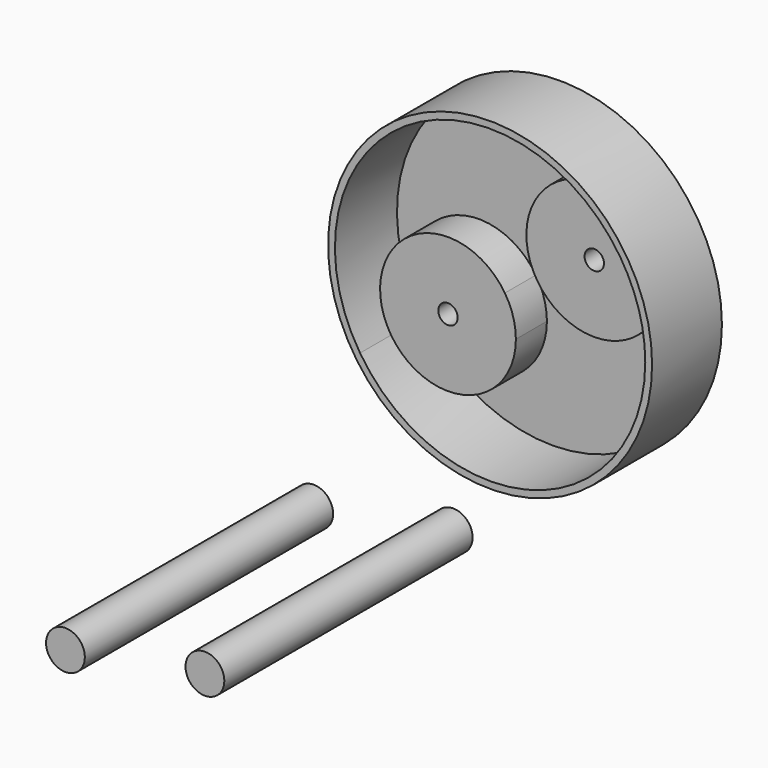
from build123d import *

# Parameters (mm, degrees)
F0_R     = 3.175
F1_DEPTH = 50.8
F2_DEPTH = 50.8
F3_R     = 26.5176901182
F4_DEPTH = 12.7
F5_DEPTH = 1.5875
F6_DEPTH = 1.5875
F7_DEPTH = 6.35
F8_D     = 3.175
F8_2_D   = 3.175
F9_D     = 3.175


with BuildPart() as f1:
    # F0 (on Front) → F1 (new body)
    with BuildSketch(Plane.XZ):
        Circle(F0_R)
    extrude(amount=F1_DEPTH)


with BuildPart() as f2:
    # F0 (on Front) → F2 (new body)
    with BuildSketch(Plane.XZ):
        with Locations((22.8306278586, 4.0089422837)):
            Circle(F0_R)
    extrude(amount=F2_DEPTH)


with BuildPart() as f4:
    # F3 (on Front) → F4 (new body)
    with BuildSketch(Plane.XZ):
        with Locations((39.0294722857, 46.9336968206)):
            Circle(F3_R)
        with BuildLine():
            ThreePointArc((60.314654032, 60.7937486974), (63.3790473986, 54.162679586), (64.4294722857, 46.9336968206))
            ThreePointArc((64.4294722857, 46.9336968206), (46.2584550511, 22.5841217077), (17.7442905394, 33.0736449439))
            ThreePointArc((17.7442905394, 33.0736449439), (25.169420409, 68.2188785669), (60.314654032, 60.7937486974))
        make_face(mode=Mode.SUBTRACT)
    extrude(amount=F4_DEPTH)

    # F3 (on Front) → F5 (join)
    with BuildSketch(Plane.XZ):
        with Locations((39.0294722857, 46.9336968206)):
            Circle(F3_R)
        with BuildLine():
            ThreePointArc((60.314654032, 60.7937486974), (63.3790473986, 54.162679586), (64.4294722857, 46.9336968206))
            ThreePointArc((64.4294722857, 46.9336968206), (46.2584550511, 22.5841217077), (17.7442905394, 33.0736449439))
            ThreePointArc((17.7442905394, 33.0736449439), (25.169420409, 68.2188785669), (60.314654032, 60.7937486974))
        make_face(mode=Mode.SUBTRACT)
    extrude(amount=-F5_DEPTH)

    # F3 (on Front) → F6 (join)
    with BuildSketch(Plane.XZ):
        with BuildLine():
            ThreePointArc((36.3688245948, 45.2011902941), (20.9927850841, 48.4496843517), (17.7442905394, 33.0736449439))
            ThreePointArc((17.7442905394, 33.0736449439), (30.2192375383, 28.4844781585), (38.1690577592, 39.137417324))
            ThreePointArc((38.1690577592, 39.137417324), (37.7094968245, 42.3000974406), (36.3688245948, 45.2011902941))
        make_face()
        with BuildLine():
            ThreePointArc((62.1148868123, 54.7299763172), (61.6553259779, 57.8926560964), (60.314654032, 60.7937486974))
            ThreePointArc((60.314654032, 60.7937486974), (44.9386141663, 64.0422433638), (41.6901199388, 48.6662034053))
            ThreePointArc((41.6901199388, 48.6662034053), (54.1650668956, 44.077037242), (62.1148868123, 54.7299763172))
        make_face()
        with BuildLine():
            ThreePointArc((17.7442905394, 33.0736449439), (46.2584550511, 22.5841217077), (64.4294722857, 46.9336968206))
            ThreePointArc((64.4294722857, 46.9336968206), (63.3790473986, 54.162679586), (60.314654032, 60.7937486974))
            ThreePointArc((60.314654032, 60.7937486974), (61.6553259779, 57.8926560964), (62.1148868123, 54.7299763172))
            ThreePointArc((62.1148868123, 54.7299763172), (54.1650668956, 44.077037242), (41.6901199388, 48.6662034053))
            ThreePointArc((41.6901199388, 48.6662034053), (42.0731691578, 47.8373197236), (42.2044722857, 46.9336968206))
            ThreePointArc((42.2044722857, 46.9336968206), (39.9330951554, 43.8899999386), (36.3688245948, 45.2011902941))
            ThreePointArc((36.3688245948, 45.2011902941), (37.7094968245, 42.3000974406), (38.1690577592, 39.137417324))
            ThreePointArc((38.1690577592, 39.137417324), (30.2192375383, 28.4844781585), (17.7442905394, 33.0736449439))
        make_face()
        with BuildLine():
            ThreePointArc((41.6901199388, 48.6662034053), (44.9386141663, 64.0422433638), (60.314654032, 60.7937486974))
            ThreePointArc((60.314654032, 60.7937486974), (25.169420409, 68.2188785669), (17.7442905394, 33.0736449439))
            ThreePointArc((17.7442905394, 33.0736449439), (20.9927850841, 48.4496843517), (36.3688245948, 45.2011902941))
            ThreePointArc((36.3688245948, 45.2011902941), (37.2969657301, 49.5943444927), (41.6901199388, 48.6662034053))
        make_face()
    extrude(amount=-F6_DEPTH)

    # F9 (through all)
    with Locations(Plane.XZ):
        with Locations((51.0023868123, 54.7299763172), (27.0565577592, 39.137417324)):
            Hole(F9_D / 2)


with BuildPart() as f7:
    # F3 (on Front) → F7 (new body)
    with BuildSketch(Plane.XZ):
        with BuildLine():
            ThreePointArc((62.1148868123, 54.7299763172), (61.6553259779, 57.8926560964), (60.314654032, 60.7937486974))
            ThreePointArc((60.314654032, 60.7937486974), (44.9386141663, 64.0422433638), (41.6901199388, 48.6662034053))
            ThreePointArc((41.6901199388, 48.6662034053), (54.1650668956, 44.077037242), (62.1148868123, 54.7299763172))
        make_face()
    extrude(amount=F7_DEPTH)

    # F8 (through all)
    with Locations(Plane(origin=(0, 0, 0), x_dir=(1, 0, 0), z_dir=(0, 1, 0))):
        with Locations((27.0565577592, -39.137417324), (51.0023868123, -54.7299763172)):
            Hole(F8_D / 2)


with BuildPart() as f7b:
    # F3 (on Front) → F7, piece 2 (new body)
    with BuildSketch(Plane.XZ):
        with BuildLine():
            ThreePointArc((36.3688245948, 45.2011902941), (20.9927850841, 48.4496843517), (17.7442905394, 33.0736449439))
            ThreePointArc((17.7442905394, 33.0736449439), (30.2192375383, 28.4844781585), (38.1690577592, 39.137417324))
            ThreePointArc((38.1690577592, 39.137417324), (37.7094968245, 42.3000974406), (36.3688245948, 45.2011902941))
        make_face()
    extrude(amount=F7_DEPTH)

    # F8#2 (through all)
    with Locations(Plane(origin=(0, 0, 0), x_dir=(1, 0, 0), z_dir=(0, 1, 0))):
        with Locations((27.0565577592, -39.137417324), (51.0023868123, -54.7299763172)):
            Hole(F8_2_D / 2)


solid = Compound([f1.part, f2.part, f4.part, f7.part, f7b.part])
